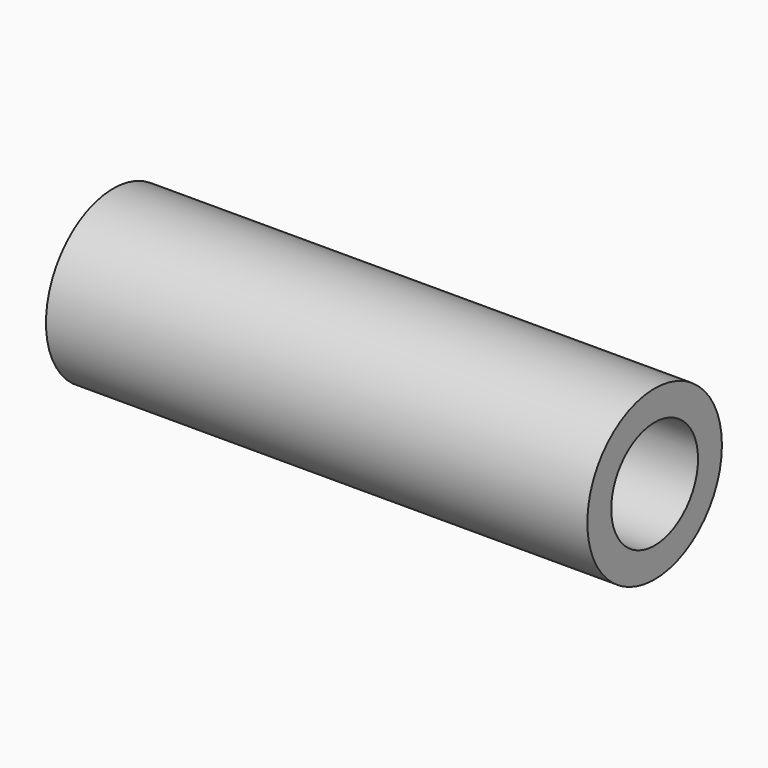
from build123d import *

# Parameters (mm, degrees)
F1_R     = 6.2151
F1_R_2   = 4.00794
F2_DEPTH = 40


with BuildPart() as f2:
    # F1 (on face) → F2 (new body)
    with BuildSketch(Plane.YZ):
        Circle(F1_R)
        Circle(F1_R_2, mode=Mode.SUBTRACT)
        Circle(F1_R)
        Circle(F1_R_2, mode=Mode.SUBTRACT)
    extrude(amount=F2_DEPTH)


solid = f2.part
